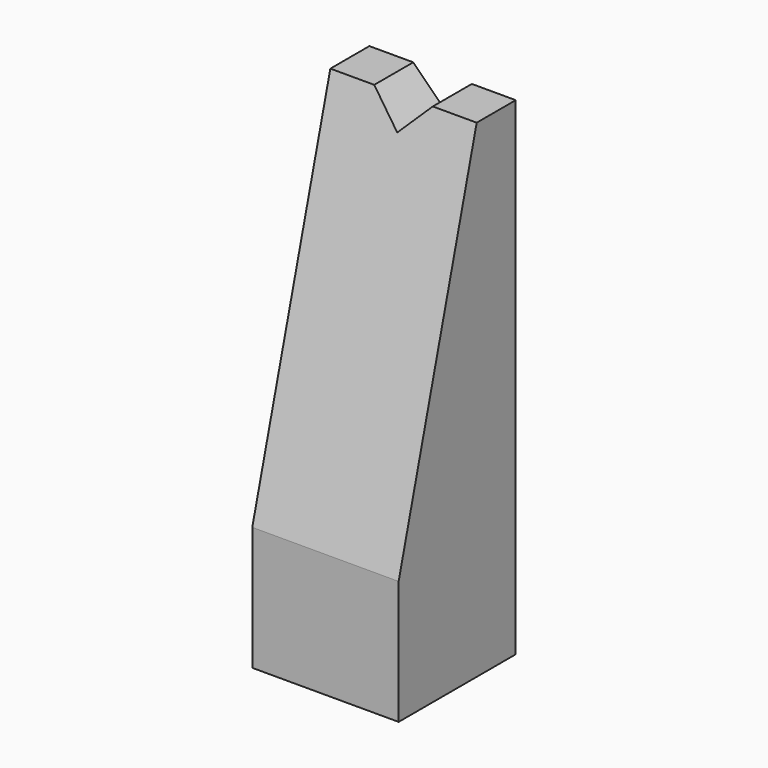
from build123d import *

# Parameters (mm, degrees)
F1_DEPTH = 15
F3_DEPTH = 25
F4_R     = 2
F5_DEPTH = 15


with BuildPart() as f1:
    # F0 (on Front) → F1 (new body)
    with BuildSketch(Plane.XZ):
        Polygon((1.792286, 40.719454), (-2.707714, 40.719454), (-2.707714, -9.280546), (12.292286, -9.280546), (12.292286, 40.719454), (7.792286, 40.719454), (4.792286, 37.719454), align=None)
    extrude(amount=F1_DEPTH)

    # F2 (on face) → F3 (cut)
    with BuildSketch(Plane.YZ.offset(12.292286)):
        Polygon((-15, 3.398946), (-5, 40.719454), (-15, 40.719454), align=None)
    extrude(amount=-F3_DEPTH, mode=Mode.SUBTRACT)

    # F4 (on face) → F5 (cut)
    with BuildSketch(Plane(origin=(0, 0, -9.280546), x_dir=(1, 0, 0), z_dir=(0, 0, -1))):
        with Locations((4.792286, 7.5)):
            Circle(F4_R)
    extrude(amount=-F5_DEPTH, mode=Mode.SUBTRACT)


solid = f1.part
